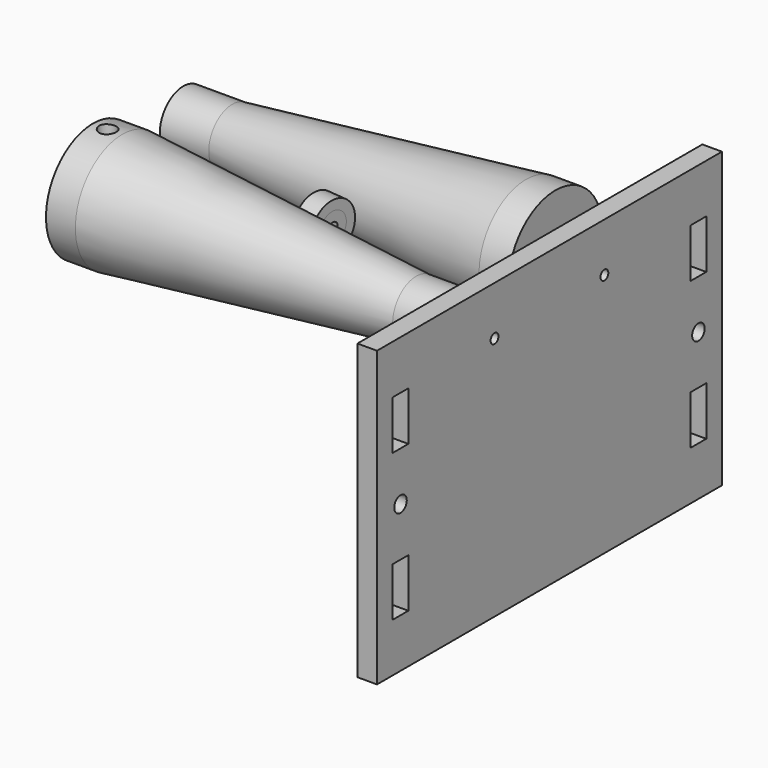
from build123d import *

# Parameters (mm, degrees)
F11_R     = 1.75
F12_DEPTH = 12.001
F13_W     = 6
F13_H     = 3
F14_DEPTH = 6.5
F16_W     = 4
F16_H     = 10
F16_R     = 1.6
F16_R_2   = 1
F17_DEPTH = 4


with BuildPart() as f4:
    # F3 (on Top) → F4 (revolve)
    with BuildSketch(Plane.XY):
        Polygon((-36, -2.0249378106), (-36, -13.0249378106), (-30, -13.0249378106), (-30, -12.5249378106), (30, -12.5249378106), (30, -13.0249378106), (40, -13.0249378106), (40, -8.0249378106), (30, -8.0249378106), (-30, -2.0249378106), align=None)
    revolve(axis=Axis((0, -14.0249378106, 0), (1, 0, 0)))

    # F11 (on Top) → F12 (cut, through all)
    with BuildSketch(Plane.XY):
        with Locations((-33, -14.0249378106)):
            Circle(F11_R)
    extrude(amount=F12_DEPTH, mode=Mode.SUBTRACT)

    # F13 (on face) → F14 (cut)
    with BuildSketch(Plane(origin=(-36, 0, 0), x_dir=(0, -1, 0), z_dir=(-1, 0, 0))):
        with Locations((14.0249378106, 5.5)):
            Rectangle(F13_W, F13_H)
    extrude(amount=-F14_DEPTH, mode=Mode.SUBTRACT)


with BuildPart() as f6:
    # F5 (on Top) → F6 (revolve)
    with BuildSketch(Plane.XY):
        Polygon((36, 14.0249378106), (36, 26.0249378106), (30, 26.0249378106), (-30, 20.0249378106), (-40, 20.0249378106), (-40, 14.0249378106), align=None)
    revolve(axis=Axis((0, 14.0249378106, 0), (1, 0, 0)))


with BuildPart() as f8:
    # F7 (on Top) → F8 (revolve)
    with BuildSketch(Plane.XY):
        Polygon((2.2885855375, 2.7861041326), (-1.6915632234, 3.1841190087), (-1.8905706614, 1.1940446283), (2.0895780994, 0.7960297522), align=None)
    revolve(axis=Axis((0, 0, 0), (0.9950371902, -0.099503719, 0)))


with BuildPart() as f10:
    # F9 (on Top) → F10 (revolve)
    with BuildSketch(Plane.XY):
        Polygon((-1.4925557853, 5.1741933891), (-1.6915632234, 3.1841190087), (2.2885855375, 2.7861041326), (2.4875929755, 4.776178513), align=None)
    revolve(axis=Axis((0, 0, 0), (0.9950371902, -0.099503719, 0)))


with BuildPart() as f17:
    # F16 (on plane+point) → F17 (new body, through all)
    with BuildSketch(Plane.YZ.offset(42)):
        Polygon((-44.0249378106, 10), (-44.0249378106, 0), (-44.0249378106, -50), (44.0249378106, -50), (44.0249378106, 0), (44.0249378106, 10), align=None)
        with Locations((-38.0249378106, -35)):
            Rectangle(F16_W, F16_H, mode=Mode.SUBTRACT)
        with Locations((38.0249378106, -35)):
            Rectangle(F16_W, F16_H, mode=Mode.SUBTRACT)
        with Locations((-38.0249378106, -20)):
            Circle(F16_R, mode=Mode.SUBTRACT)
        with Locations((-38.0249378106, -5)):
            Rectangle(F16_W, F16_H, mode=Mode.SUBTRACT)
        with Locations((-14.0249378106, 0)):
            Circle(F16_R_2, mode=Mode.SUBTRACT)
        with Locations((38.0249378106, -20)):
            Circle(F16_R, mode=Mode.SUBTRACT)
        with Locations((14.0249378106, 0)):
            Circle(F16_R_2, mode=Mode.SUBTRACT)
        with Locations((38.0249378106, -5)):
            Rectangle(F16_W, F16_H, mode=Mode.SUBTRACT)
    extrude(amount=F17_DEPTH)


solid = Compound([f4.part, f6.part, f8.part, f10.part, f17.part])
